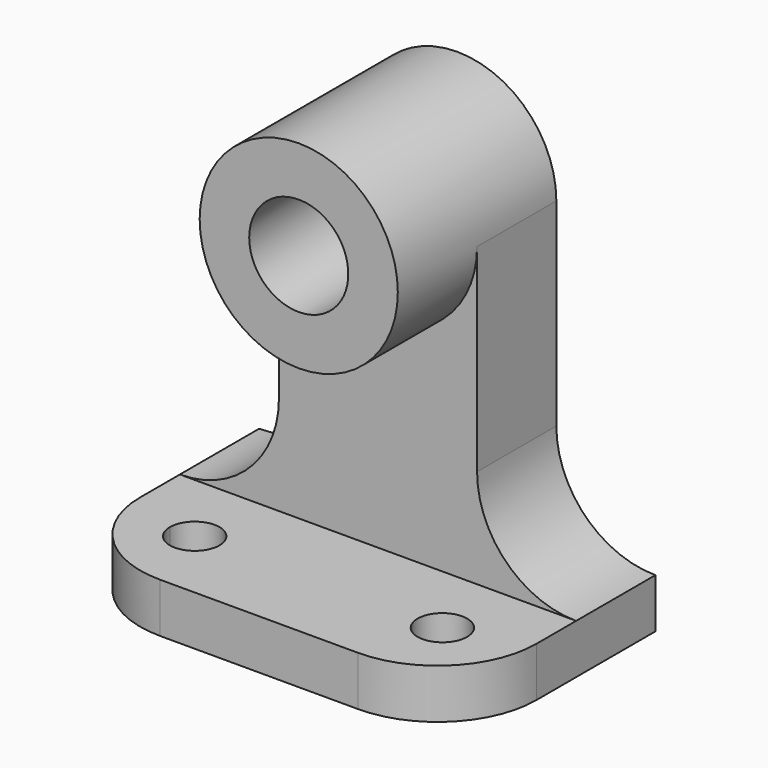
from build123d import *

# Parameters (mm, degrees)
F0_W      = 50.8
F0_H      = 31.75
F1_DEPTH  = 57.15
F2_W      = 50.8
F2_H      = 25.4
F3_DEPTH  = 19.05
F5_DEPTH  = 19.05
F6_DEPTH  = 6.35
F8_DEPTH  = 57.151
F10_DEPTH = 12.701
F12_DEPTH = 12.701
F14_DEPTH = 25.4


with BuildPart() as f1:
    # F0 (on Top) → F1 (new body)
    with BuildSketch(Plane.XY):
        with Locations((25.4, 15.875)):
            Rectangle(F0_W, F0_H)
    extrude(amount=F1_DEPTH)

    # F2 (on face) → F3 (cut)
    with BuildSketch(Plane.XZ):
        with Locations((25.4, 19.05)):
            Rectangle(F2_W, F2_H)
    extrude(amount=-F3_DEPTH, mode=Mode.SUBTRACT)

    # F4 (on face) → F5 (cut)
    with BuildSketch(Plane.XZ):
        with BuildLine():
            ThreePointArc((12.7, 44.45), (16.4197438789, 53.4302561211), (25.4, 57.15))
            Line((25.4, 57.15), (0, 57.15))
            Line((0, 57.15), (0, 44.45))
            Line((0, 44.45), (12.7, 44.45))
        make_face()
        with BuildLine():
            Line((0, 31.75), (25.4, 31.75))
            ThreePointArc((25.4, 31.75), (16.4197438789, 35.4697438789), (12.7, 44.45))
            Line((12.7, 44.45), (0, 44.45))
            Line((0, 44.45), (0, 31.75))
        make_face()
        with BuildLine():
            Line((50.8, 44.45), (38.1, 44.45))
            ThreePointArc((38.1, 44.45), (34.3802561211, 35.4697438789), (25.4, 31.75))
            Line((25.4, 31.75), (50.8, 31.75))
            Line((50.8, 31.75), (50.8, 44.45))
        make_face()
        with BuildLine():
            ThreePointArc((25.4, 57.15), (34.3802561211, 53.4302561211), (38.1, 44.45))
            Line((38.1, 44.45), (50.8, 44.45))
            Line((50.8, 44.45), (50.8, 57.15))
            Line((50.8, 57.15), (25.4, 57.15))
        make_face()
        with BuildLine():
            Line((19.05, 44.45), (31.75, 44.45))
            ThreePointArc((31.75, 44.45), (25.4, 50.8), (19.05, 44.45))
        make_face()
        with BuildLine():
            ThreePointArc((19.05, 44.45), (25.4, 38.1), (31.75, 44.45))
            Line((31.75, 44.45), (19.05, 44.45))
        make_face()
    extrude(amount=-F5_DEPTH, mode=Mode.SUBTRACT)

    # F6 (cut): a face of the model
    f6_faces = [f1.faces().sort_by_distance(p)[0] for p in [
        (25.4, 0, 56.7907897552),
    ]]
    extrude(f6_faces, amount=-F6_DEPTH, mode=Mode.SUBTRACT)

    # F7 (on face) → F8 (cut, through all)
    with BuildSketch(Plane(origin=(0, 0, 0), x_dir=(1, 0, 0), z_dir=(0, 0, -1))):
        with BuildLine():
            Line((0, 0), (0, -12.7))
            ThreePointArc((0, -12.7), (3.7197438789, -3.7197438789), (12.7, 0))
            Line((12.7, 0), (0, 0))
        make_face()
        with BuildLine():
            Line((50.8, 0), (38.1, 0))
            ThreePointArc((38.1, 0), (47.0802561211, -3.7197438789), (50.8, -12.7))
            Line((50.8, -12.7), (50.8, 0))
        make_face()
    extrude(amount=-F8_DEPTH, mode=Mode.SUBTRACT)

    # F9 (on face) → F10 (cut, through all)
    with BuildSketch(Plane.XZ.offset(-19.05)):
        Polygon((12.7, 44.45), (12.7, 57.15), (0, 57.15), (0, 19.05), (12.7, 19.05), align=None)
        Polygon((50.8, 57.15), (38.1, 57.15), (38.1, 44.45), (38.1, 19.05), (50.8, 19.05), align=None)
        with BuildLine():
            Line((38.1, 57.15), (25.4, 57.15))
            ThreePointArc((25.4, 57.15), (34.3802561211, 53.4302561211), (38.1, 44.45))
            Line((38.1, 44.45), (38.1, 57.15))
        make_face()
        with BuildLine():
            Line((25.4, 57.15), (12.7, 57.15))
            Line((12.7, 57.15), (12.7, 44.45))
            ThreePointArc((12.7, 44.45), (16.4197438789, 53.4302561211), (25.4, 57.15))
        make_face()
    extrude(amount=-F10_DEPTH, mode=Mode.SUBTRACT)

    # F11 (on face) → F12 (cut, through all)
    with BuildSketch(Plane.XZ.offset(-19.05)):
        with BuildLine():
            Line((0, 19.05), (0, 6.35))
            ThreePointArc((0, 6.35), (8.9802561211, 10.0697438789), (12.7, 19.05))
            Line((12.7, 19.05), (0, 19.05))
        make_face()
        with BuildLine():
            ThreePointArc((38.1, 19.05), (41.8197438789, 10.0697438789), (50.8, 6.35))
            Line((50.8, 6.35), (50.8, 19.05))
            Line((50.8, 19.05), (38.1, 19.05))
        make_face()
    extrude(amount=-F12_DEPTH, mode=Mode.SUBTRACT)

    # F13 (on face) → F14 (cut)
    with BuildSketch(Plane(origin=(0, 0, 0), x_dir=(1, 0, 0), z_dir=(0, 0, -1))):
        with BuildLine():
            Line((9.525, -9.525), (6.35, -9.525))
            ThreePointArc((6.35, -9.525), (9.525, -12.7), (12.7, -9.525))
            ThreePointArc((12.7, -9.525), (11.7700640303, -7.2799359697), (9.525, -6.35))
            Line((9.525, -6.35), (9.525, -9.525))
        make_face()
        with BuildLine():
            ThreePointArc((9.525, -6.35), (7.2799359697, -7.2799359697), (6.35, -9.525))
            Line((6.35, -9.525), (9.525, -9.525))
            Line((9.525, -9.525), (9.525, -6.35))
        make_face()
        with BuildLine():
            Line((41.275, -9.525), (41.275, -6.35))
            ThreePointArc((41.275, -6.35), (39.0299359697, -11.7700640303), (44.45, -9.525))
            Line((44.45, -9.525), (41.275, -9.525))
        make_face()
        with BuildLine():
            ThreePointArc((44.45, -9.525), (43.5200640303, -7.2799359697), (41.275, -6.35))
            Line((41.275, -6.35), (41.275, -9.525))
            Line((41.275, -9.525), (44.45, -9.525))
        make_face()
    extrude(amount=-F14_DEPTH, mode=Mode.SUBTRACT)


solid = f1.part
